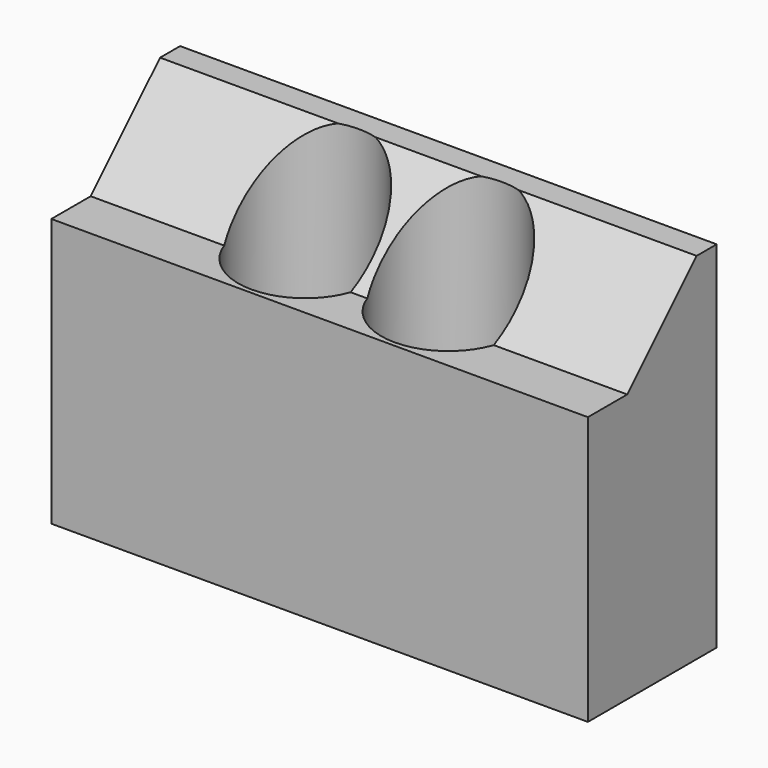
from build123d import *

# Parameters (mm, degrees)
F1_DEPTH       = 30
F3_D           = 9
F3_CBORE_D     = 15
F3_CBORE_DEPTH = 18.8


with BuildPart() as f1:
    # F0 (on Right) → F1 (new body, symmetric)
    with BuildSketch(Plane.YZ):
        Polygon((-18, 0), (0, 0), (0, 39.7), (-2.8, 39.7), (-12.5, 30), (-18, 30), align=None)
    extrude(amount=F1_DEPTH, both=True)

    # F3 (through all)
    with Locations(Plane.XY.offset(39.7)):
        with Locations((-8, -10), (8, -10)):
            CounterBoreHole(F3_D / 2, F3_CBORE_D / 2, F3_CBORE_DEPTH)


solid = f1.part
